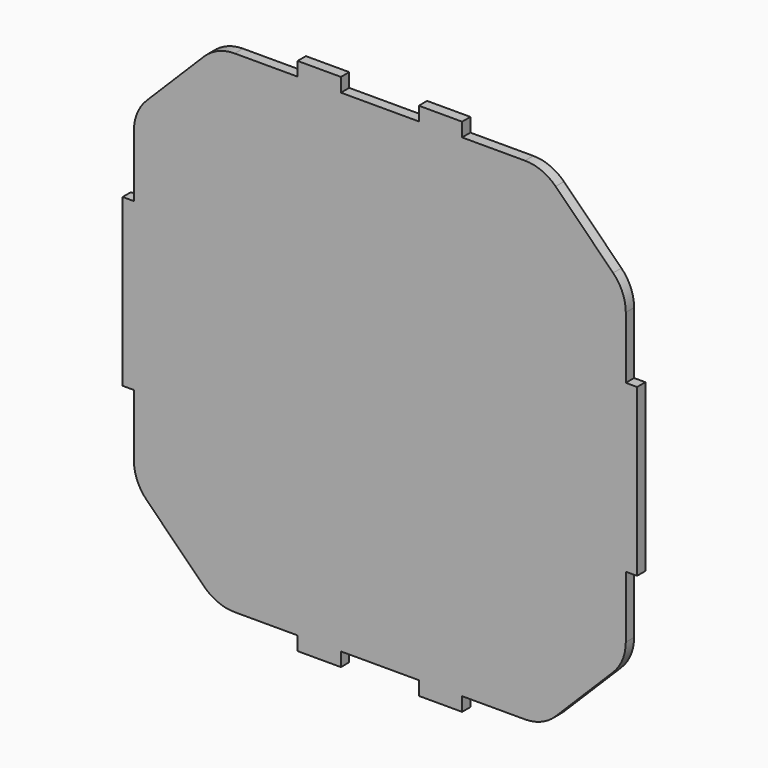
from build123d import *

# Parameters (mm, degrees)
F0_W     = 6.35
F0_H     = 2.032
F0_W_2   = 72.136
F0_H_2   = 24.384
F0_W_3   = 1.651
F1_DEPTH = 1.524


with BuildPart() as f1:
    # F0 (on Front) → F1 (new body)
    with BuildSketch(Plane.XZ):
        with BuildLine():
            Line((18.418700083, 36.344532257), (9.1906381628, 36.344532257))
            Line((9.1906381628, 36.344532257), (2.8406381628, 36.344532257))
            Line((2.8406381628, 36.344532257), (-8.5829475322, 36.344532257))
            Line((-8.5829475322, 36.344532257), (-14.9329475322, 36.344532257))
            Line((-14.9329475322, 36.344532257), (-24.1610094524, 36.344532257))
            ThreePointArc((-24.1610094524, 36.344532257), (-26.5910492479, 35.8611672884), (-28.6511375129, 34.4846603175))
            Line((-28.6511375129, 34.4846603175), (-37.0792827452, 26.0565150852))
            ThreePointArc((-37.0792827452, 26.0565150852), (-38.4557897162, 23.9964268202), (-38.9391546847, 21.5663870246))
            Line((-38.9391546847, 21.5663870246), (-38.9391546847, 12.468532257))
            Line((-38.9391546847, 12.468532257), (33.1968453153, 12.468532257))
            Line((33.1968453153, 12.468532257), (33.1968453153, 21.5663870246))
            ThreePointArc((33.1968453153, 21.5663870246), (32.7134803467, 23.9964268202), (31.3369733758, 26.0565150852))
            Line((31.3369733758, 26.0565150852), (22.9088281435, 34.4846603175))
            ThreePointArc((22.9088281435, 34.4846603175), (20.8487398785, 35.8611672884), (18.418700083, 36.344532257))
        make_face()
        with Locations((-11.7579475322, 37.360532257)):
            Rectangle(F0_W, F0_H)
        with Locations((6.0156381628, 37.360532257)):
            Rectangle(F0_W, F0_H)
        with Locations((-11.7579475322, -36.807467743)):
            Rectangle(F0_W, F0_H)
        with Locations((6.0156381628, -36.807467743)):
            Rectangle(F0_W, F0_H)
        with BuildLine():
            Line((33.1968453153, -21.0133225107), (33.1968453153, -11.915467743))
            Line((33.1968453153, -11.915467743), (-38.9391546847, -11.915467743))
            Line((-38.9391546847, -11.915467743), (-38.9391546847, -21.0133225107))
            ThreePointArc((-38.9391546847, -21.0133225107), (-38.4557897162, -23.4433623062), (-37.0792827452, -25.5034505712))
            Line((-37.0792827452, -25.5034505712), (-28.6511375129, -33.9315958036))
            ThreePointArc((-28.6511375129, -33.9315958036), (-26.5910492479, -35.3081027745), (-24.1610094524, -35.791467743))
            Line((-24.1610094524, -35.791467743), (-14.9329475322, -35.791467743))
            Line((-14.9329475322, -35.791467743), (-8.5829475322, -35.791467743))
            Line((-8.5829475322, -35.791467743), (2.8406381628, -35.791467743))
            Line((2.8406381628, -35.791467743), (9.1906381628, -35.791467743))
            Line((9.1906381628, -35.791467743), (18.418700083, -35.791467743))
            ThreePointArc((18.418700083, -35.791467743), (20.8487398785, -35.3081027745), (22.9088281435, -33.9315958036))
            Line((22.9088281435, -33.9315958036), (31.3369733758, -25.5034505712))
            ThreePointArc((31.3369733758, -25.5034505712), (32.7134803467, -23.4433623062), (33.1968453153, -21.0133225107))
        make_face()
        with Locations((-2.8711546847, 0.276532257)):
            Rectangle(F0_W_2, F0_H_2)
        with Locations((-39.7646546847, 0.276532257)):
            Rectangle(F0_W_3, F0_H_2)
        with Locations((34.0223453153, 0.276532257)):
            Rectangle(F0_W_3, F0_H_2)
    extrude(amount=F1_DEPTH)


solid = f1.part
